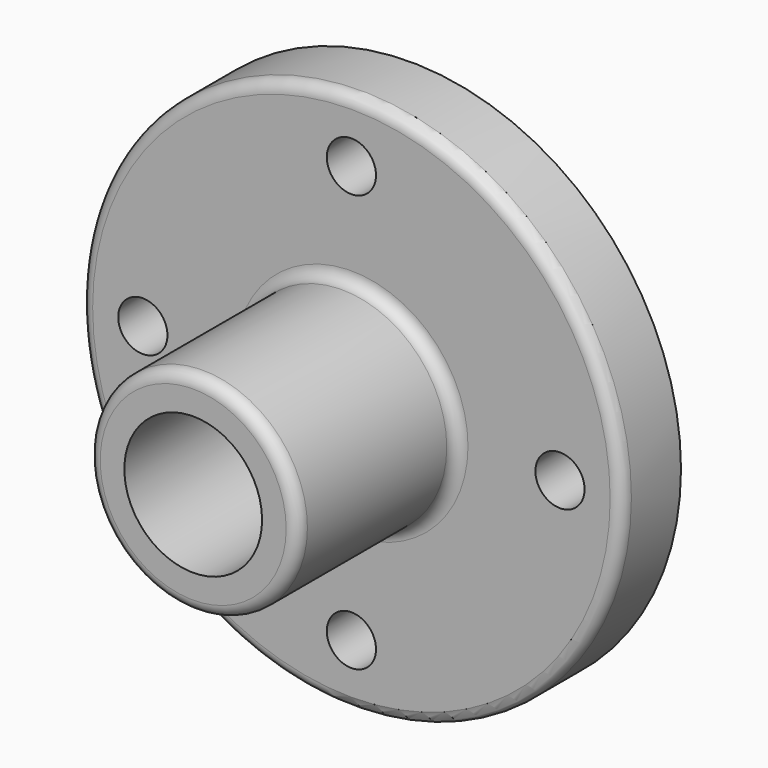
from build123d import *

# Parameters (mm, degrees)
F2_R     = 0.7
F3_DEPTH = 2.761
F4_R     = 0.25
F5_DEPTH = 0.751
F6_R     = 0.12


with BuildPart() as f1:
    # F0 (on Top) → F1 (revolve)
    with BuildSketch(Plane.XY):
        Polygon((0, 2.76), (0, 0), (1.065, 0), (1.065, 2.01), (2.75, 2.01), (2.75, 2.76), align=None)
    revolve(axis=Axis((0, 1.38, 0), (0, 1, 0)))

    # F2 (on face) → F3 (cut, through all)
    with BuildSketch(Plane.XZ):
        Circle(F2_R)
    extrude(amount=-F3_DEPTH, mode=Mode.SUBTRACT)

    # F4 (on face) → F5 (cut, through all)
    with BuildSketch(Plane.XZ.offset(-2.01)):
        with Locations((0, 2.12)):
            Circle(F4_R)
        with Locations((2.12, 0)):
            Circle(F4_R)
        with Locations((0, -2.12)):
            Circle(F4_R)
        with Locations((-2.12, 0)):
            Circle(F4_R)
    extrude(amount=-F5_DEPTH, mode=Mode.SUBTRACT)

    # F6
    f6_edges = [f1.edges().sort_by_distance(p)[0] for p in [
        (-2.75, 2.01, 0),
        (-1.065, 2.01, 0),
        (-1.065, 0, 0),
    ]]
    fillet(f6_edges, radius=F6_R)


solid = f1.part
